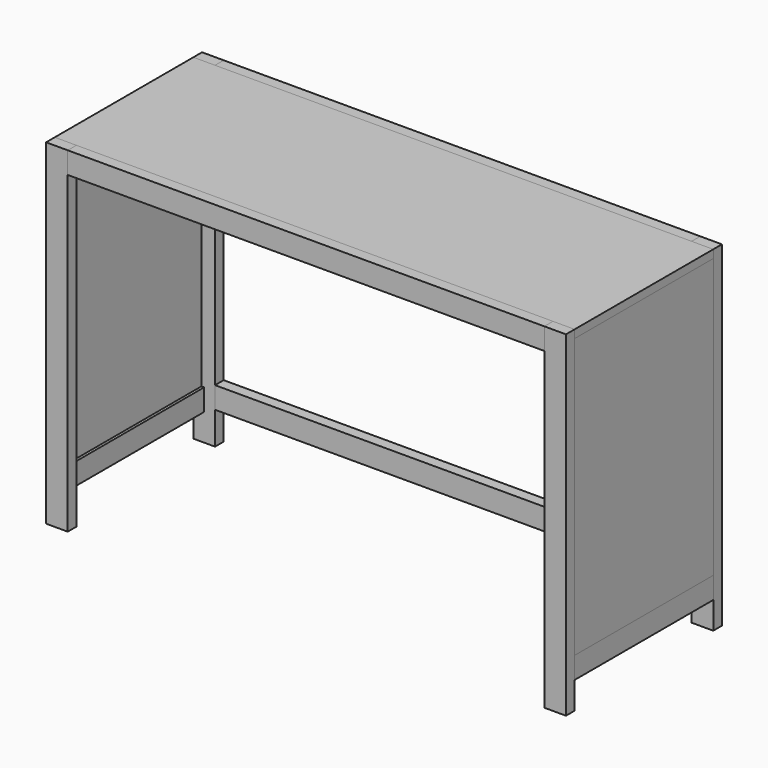
from build123d import *

# Parameters (mm, degrees)
F1_DEPTH  = 406.4
F3_DEPTH  = 787.4
F4_DEPTH  = 787.4
F2_W      = 1117.6
F2_H      = 25.4
F5_DEPTH  = 50.8
F2_W_2    = 25.4
F2_H_2    = 406.4
F12_DEPTH = 50.8
F16_W     = 406.4
F16_H     = 654.05
F17_DEPTH = 19.05


with BuildPart() as f1:
    # F0 (on Front) → F1 (new body)
    with BuildSketch(Plane.XZ):
        Polygon((0, 787.4), (-1219.2, 787.4), (-1219.2, 768.35), (-1200.15, 768.35), (-19.05, 768.35), (0, 768.35), align=None)
    extrude(amount=F1_DEPTH)


with BuildPart() as f3:
    # F2 (on face) → F3 (new body)
    with BuildSketch(Plane.XY.offset(787.4)):
        Polygon((-1219.2, -406.4), (-1219.2, -431.8), (-1168.4, -431.8), (-1168.4, -406.4), (-1193.8, -406.4), align=None)
    extrude(amount=-F3_DEPTH)


with BuildPart() as f4:
    # F2 (on face) → F4 (new body)
    with BuildSketch(Plane.XY.offset(787.4)):
        Polygon((-50.8, -406.4), (-50.8, -431.8), (0, -431.8), (0, -406.4), (-25.4, -406.4), align=None)
    extrude(amount=-F4_DEPTH)


with BuildPart() as f5:
    # F2 (on face) → F5 (new body)
    with BuildSketch(Plane.XY.offset(787.4)):
        with Locations((-609.6, -419.1)):
            Rectangle(F2_W, F2_H)
    extrude(amount=-F5_DEPTH)


with BuildPart() as f6_1:
    # F6: copy of F5
    add(f5.part)


with BuildPart() as f5_1:
    # F7: moved
    add(f5.part.moved(Location((0, 0, -330.2))))


with BuildPart() as f5_2:
    # F8: moved
    add(f5_1.part.moved(Location((0, 0, -330.2))))


with BuildPart() as f9_1:
    # F9: copy of F3
    add(f3.part)


with BuildPart() as f9_2:
    # F9: copy of F6_1
    add(f6_1.part)


with BuildPart() as f9_3:
    # F9: copy of F5
    add(f5_2.part)


with BuildPart() as f9_4:
    # F9: copy of F4
    add(f4.part)


with BuildPart() as f9_4_1:
    # F10: moved
    add(f9_4.part.moved(Location((0, 431.8, 0))))


with BuildPart() as f9_3_1:
    # F10: moved
    add(f9_3.part.moved(Location((0, 431.8, 0))))


with BuildPart() as f9_2_1:
    # F10: moved
    add(f9_2.part.moved(Location((0, 431.8, 0))))


with BuildPart() as f9_1_1:
    # F10: moved
    add(f9_1.part.moved(Location((0, 431.8, 0))))


with BuildPart() as f12:
    # F2 (on face) → F12 (new body)
    with BuildSketch(Plane.XY.offset(787.4)):
        with Locations((-1206.5, -203.2)):
            Rectangle(F2_W_2, F2_H_2)
    extrude(amount=F12_DEPTH)


with BuildPart() as f12_1:
    # F13: moved
    add(f12.part.moved(Location((0, 0, -723.9))))


with BuildPart() as f14_1:
    # F14: copy of F12
    add(f12_1.part)


with BuildPart() as f14_1_1:
    # F15: moved
    add(f14_1.part.moved(Location((1193.8, 0, 0))))


with BuildPart() as f17:
    # F16 (on face) → F17 (new body)
    with BuildSketch(Plane.YZ):
        with Locations((-203.2, 441.325)):
            Rectangle(F16_W, F16_H)
    extrude(amount=-F17_DEPTH)


with BuildPart() as f18_1:
    # F18: copy of F17
    add(f17.part)


with BuildPart() as f18_1_1:
    # F19: moved
    add(f18_1.part.moved(Location((-1200.15, 0, 0))))


solid = Compound([f1.part, f3.part, f4.part, f6_1.part, f9_4_1.part, f9_3_1.part, f9_2_1.part, f9_1_1.part, f12_1.part, f14_1_1.part, f17.part, f18_1_1.part])
